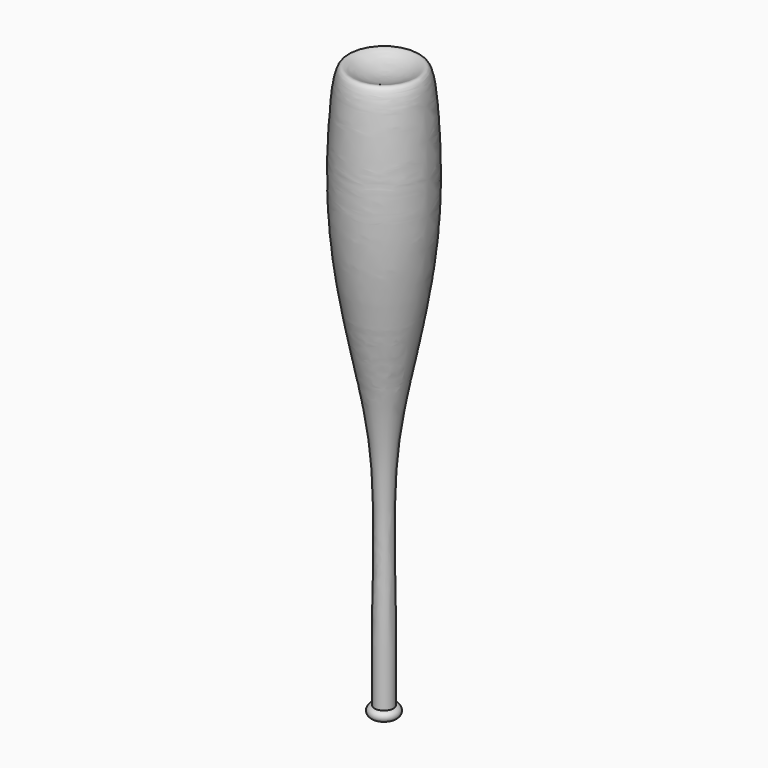
from build123d import *


with BuildPart() as f1:
    # F0 (on Front) → F1 (revolve)
    with BuildSketch(Plane.XZ):
        with BuildLine():
            add(Edge.make_bspline(
                [(12.7, -285.1739236116), (14.2750279118, -181.0927830337), (5.8779100522, -14.9578489026), (28.6004761763, 105.6732917849), (62.4845807915, 264.2846256412), (60.2938227015, 404.7420400167), (50.7025171531, 494.1072830252), (32.9255445191, 464.9872619026), (0, 464.1260763884)],
                knots=[0, 0, 0, 0, 0.2464986037, 0.4102214549, 0.5981120669, 0.7822309921, 0.8964788555, 1, 1, 1, 1], degree=3))
            Line((0, 464.1260763884), (0, -297.8739236116))
            Line((0, -297.8739236116), (12.7, -297.8739236116))
            ThreePointArc((12.7, -297.8739236116), (19.05, -291.5239236116), (12.7, -285.1739236116))
        make_face()
    revolve(axis=Axis((0, 0, 83.1260763884), (0, 0, -1)))


solid = f1.part
